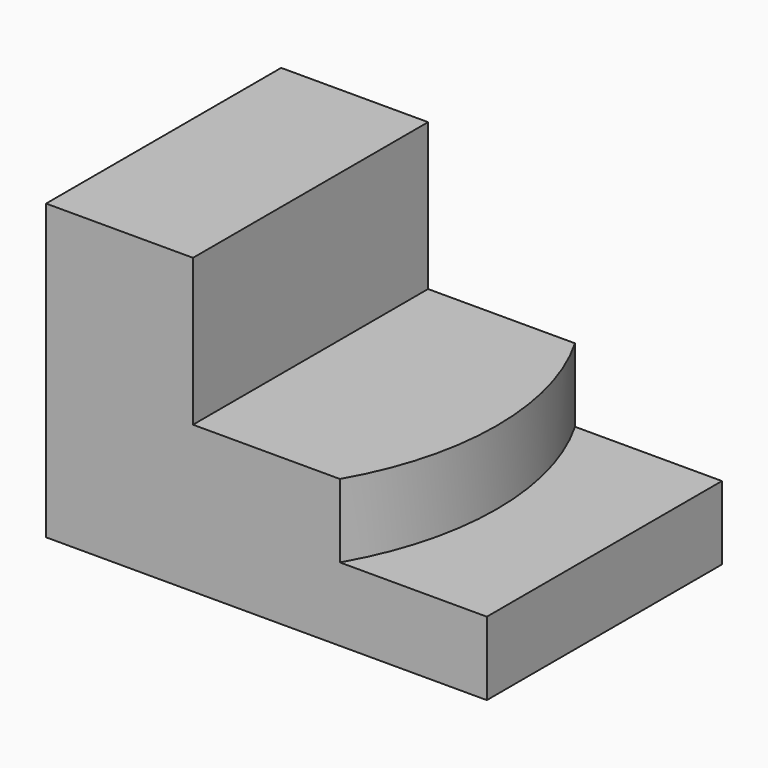
from build123d import *

# Parameters (mm, degrees)
F0_W     = 60
F0_H     = 40
F1_DEPTH = 40
F2_W     = 40
F2_H     = 40
F3_DEPTH = 20
F5_DEPTH = 10


with BuildPart() as f1:
    # F0 (on Front) → F1 (new body)
    with BuildSketch(Plane.XZ):
        with Locations((30, 20)):
            Rectangle(F0_W, F0_H)
    extrude(amount=F1_DEPTH)

    # F2 (on face) → F3 (cut)
    with BuildSketch(Plane.XY.offset(40)):
        with Locations((40, -20)):
            Rectangle(F2_W, F2_H)
    extrude(amount=-F3_DEPTH, mode=Mode.SUBTRACT)

    # F4 (on face) → F5 (cut)
    with BuildSketch(Plane.XY.offset(20)):
        with BuildLine():
            Line((60, 0), (40, 0))
            ThreePointArc((40, 0), (45.358984, -20), (40, -40))
            Line((40, -40), (60, -40))
            Line((60, -40), (60, 0))
        make_face()
    extrude(amount=-F5_DEPTH, mode=Mode.SUBTRACT)


solid = f1.part
